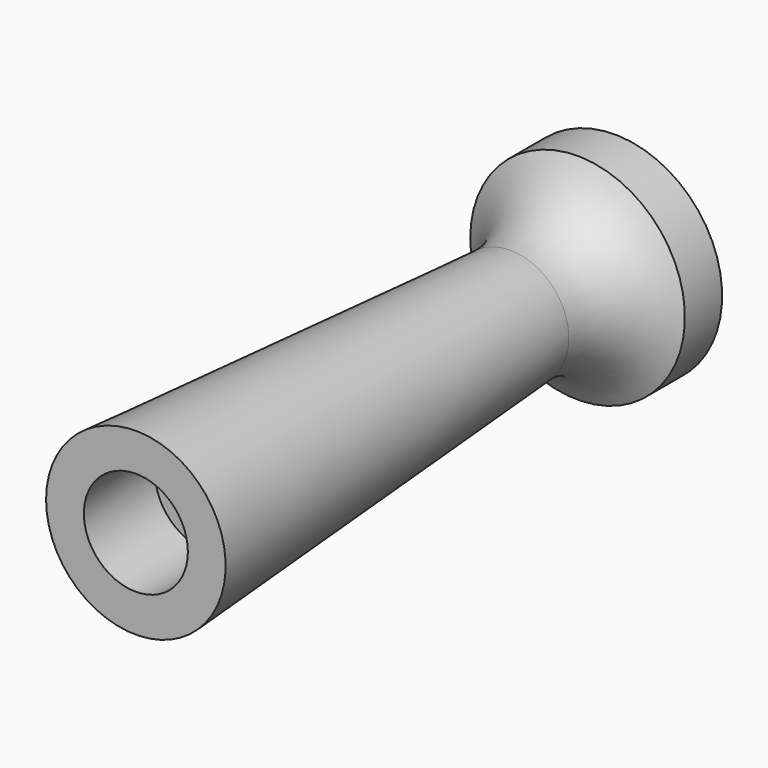
from build123d import *

# Parameters (mm, degrees)
F2_R     = 3.048
F3_DEPTH = 5.207


with BuildPart() as f1:
    # F0 (on Top) → F1 (revolve)
    with BuildSketch(Plane.XY):
        with BuildLine():
            Line((49.5707131922, 48.660736531), (49.5707131922, 43.605748564))
            Line((49.5707131922, 43.605748564), (52.6185971337, 43.5791500838))
            Line((52.6185971337, 43.5791500838), (52.6185971337, 86.4041447639))
            ThreePointArc((52.6185971337, 86.4041447639), (49.203981533, 85.7130864295), (46.3267862797, 83.7486758828))
            Line((46.3267862797, 83.7486758828), (46.3267862797, 81.023491919))
            ThreePointArc((46.3267862797, 81.023491919), (48.5140769462, 79.0015491722), (49.1940490901, 76.101526618))
            Line((49.1940490901, 76.101526618), (47.3565161228, 48.660736531))
            Line((47.3565161228, 48.660736531), (49.5707131922, 48.660736531))
        make_face()
    revolve(axis=Axis((52.6185971337, 64.9916474239, 0), (0, 1, 0)))

    # F2 (on face) → F3 (cut, symmetric)
    with BuildSketch(Plane.XZ.offset(-48.660736531)):
        with Locations((52.6185971337, 0)):
            Circle(F2_R)
    extrude(amount=F3_DEPTH, both=True, mode=Mode.SUBTRACT)


solid = f1.part
